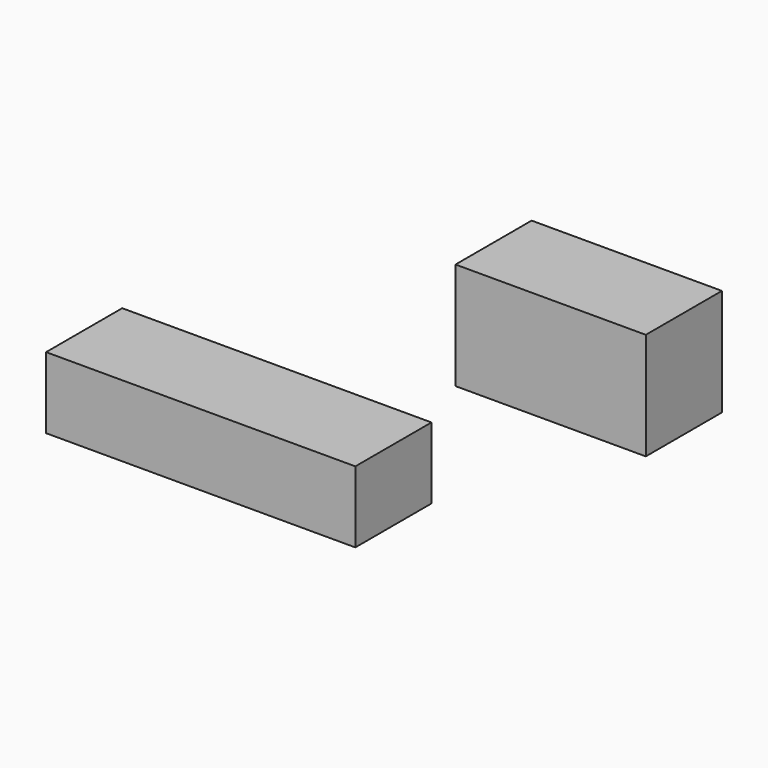
from build123d import *

# Parameters (mm, degrees)
F0_W     = 82.55
F0_H     = 19.05
F1_DEPTH = 25.4


with BuildPart() as f1:
    # F0 (on Front) → F1 (new body)
    with BuildSketch(Plane.XZ):
        Polygon((68.0124, 65.653741), (68.0124, 57.26933), (68.0124, 37.078741), (118.8124, 37.078741), (118.8124, 65.653741), align=None)
        Rectangle(F0_W, F0_H)
    extrude(amount=F1_DEPTH)


solid = f1.part
